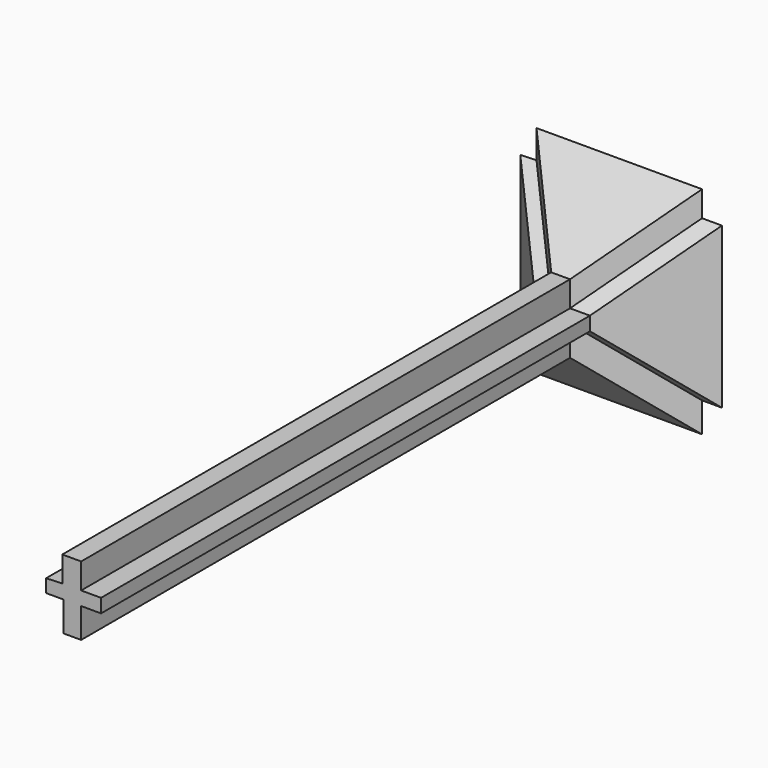
from build123d import *

# Parameters (mm, degrees)
F1_DEPTH = 125
F2_DEPTH = 15
F2_TAPER = -45


with BuildPart() as f1:
    # F0 (on Front) → F1 (new body)
    with BuildSketch(Plane.XZ):
        Polygon((1.7669543546, 6.7811603033), (-2.0882183065, 6.7811603033), (-2.0882183065, 1.552869969), (-5.4079505693, 1.4267536274), (-5.4079505693, -1.2504493977), (-1.874042054, -1.2504493977), (-1.874042054, -7.3544723606), (1.7669543546, -7.3544723606), (1.7669543546, -1.2504493977), (5.8363022205, -1.2504493977), (5.8363022205, 1.552869969), (1.7669543546, 1.552869969), align=None)
    extrude(amount=F1_DEPTH)

    # F1_face (on face) → F2 (join)
    with BuildSketch(Plane(origin=(0.0437470042, 0, -0.0974419845), x_dir=(1, 0, 0), z_dir=(0, 1, 0))):
        Polygon((1.7232073505, -1.6503119535), (5.7925552164, -1.6503119535), (5.7925552164, 1.1530074132), (1.7232073505, 1.1530074132), (1.7232073505, 7.2570303762), (-1.9177890582, 7.2570303762), (-1.9177890582, 1.1530074132), (-5.4516975734, 1.1530074132), (-5.4516975734, -1.5241956119), (-2.1319653107, -1.6503119535), (-2.1319653107, -6.8786022878), (1.7232073505, -6.8786022878), align=None)
    extrude(amount=F2_DEPTH, taper=F2_TAPER)


solid = f1.part
